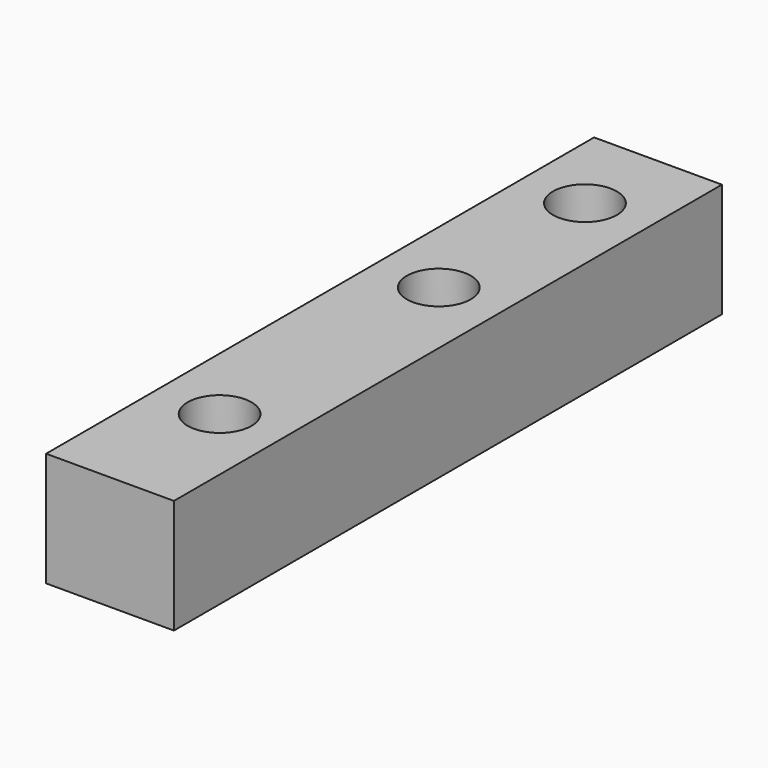
from build123d import *

# Parameters (mm, degrees)
F0_W           = 28
F0_H           = 25
F1_DEPTH       = 150
F3_D           = 9
F3_CBORE_D     = 14
F3_CBORE_DEPTH = 9


with BuildPart() as f1:
    # F0 (on Front) → F1 (new body)
    with BuildSketch(Plane.XZ):
        with Locations((14, 12.5)):
            Rectangle(F0_W, F0_H)
    extrude(amount=F1_DEPTH)

    # F3 (through all)
    with Locations(Plane.XY.offset(25)):
        with Locations((14, -20), (14, -60), (14, -120)):
            CounterBoreHole(F3_D / 2, F3_CBORE_D / 2, F3_CBORE_DEPTH)


solid = f1.part
